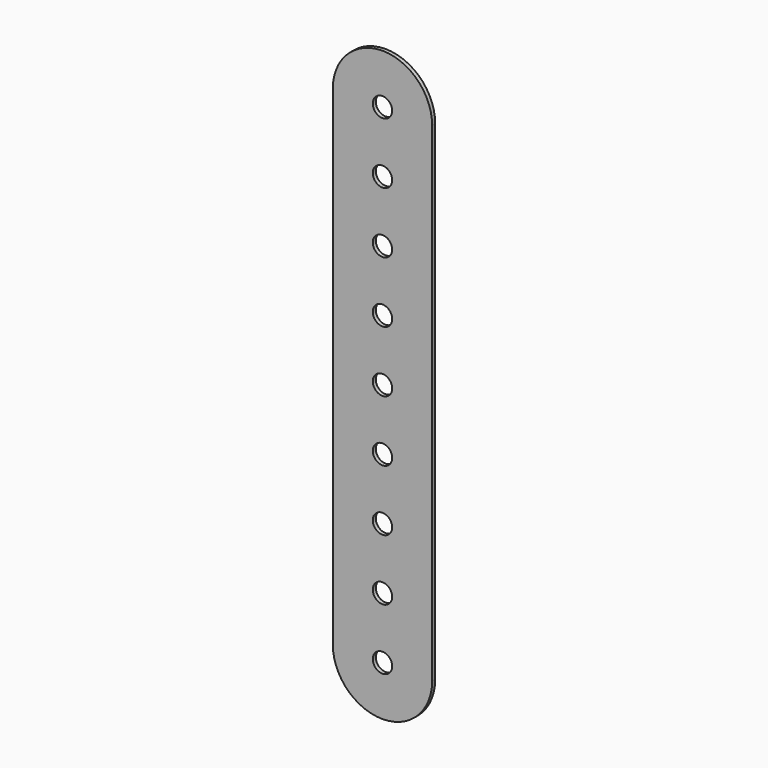
from build123d import *

# Parameters (mm, degrees)
F0_R     = 2.54
F1_DEPTH = 1


with BuildPart() as f1:
    # F0 (on Front) → F1 (new body)
    with BuildSketch(Plane.XZ):
        with BuildLine():
            ThreePointArc((13, 94.4), (0, 81.4), (-13, 94.4))
            Line((-13, 94.4), (-13, -33.6))
            ThreePointArc((-13, -33.6), (0, -20.6), (13, -33.6))
            Line((13, -33.6), (13, 94.4))
        make_face()
        with Locations((0, -17.6)):
            Circle(F0_R, mode=Mode.SUBTRACT)
        with Locations((0, -1.6)):
            Circle(F0_R, mode=Mode.SUBTRACT)
        with Locations((0, 14.4)):
            Circle(F0_R, mode=Mode.SUBTRACT)
        with Locations((0, 30.4)):
            Circle(F0_R, mode=Mode.SUBTRACT)
        with Locations((0, 46.4)):
            Circle(F0_R, mode=Mode.SUBTRACT)
        with Locations((0, 62.4)):
            Circle(F0_R, mode=Mode.SUBTRACT)
        with Locations((0, 78.4)):
            Circle(F0_R, mode=Mode.SUBTRACT)
        with BuildLine():
            ThreePointArc((13, 94.4), (0, 107.4), (-13, 94.4))
            ThreePointArc((-13, 94.4), (0, 81.4), (13, 94.4))
        make_face()
        with Locations((0, 94.4)):
            Circle(F0_R, mode=Mode.SUBTRACT)
        with BuildLine():
            ThreePointArc((13, -33.6), (0, -20.6), (-13, -33.6))
            ThreePointArc((-13, -33.6), (0, -46.6), (13, -33.6))
        make_face()
        with Locations((0, -33.6)):
            Circle(F0_R, mode=Mode.SUBTRACT)
    extrude(amount=F1_DEPTH)


solid = f1.part
